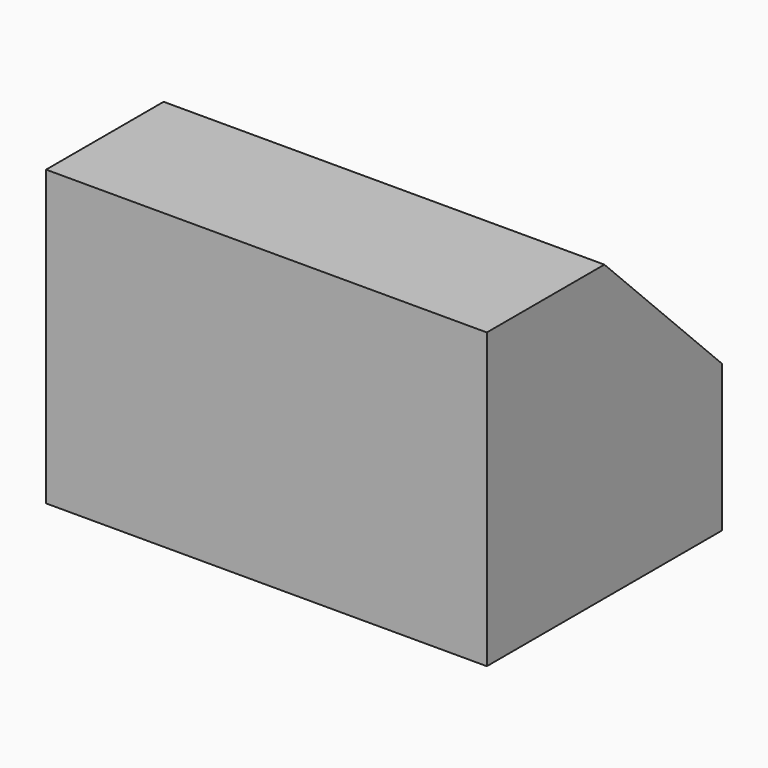
from build123d import *

# Parameters (mm, degrees)
F0_W     = 76.2
F0_H     = 50.8
F1_DEPTH = 50.8
F3_DEPTH = 76.201


with BuildPart() as f1:
    # F0 (on Front) → F1 (new body)
    with BuildSketch(Plane.XZ):
        with Locations((38.1, 25.4)):
            Rectangle(F0_W, F0_H)
    extrude(amount=F1_DEPTH)

    # F2 (on face) → F3 (cut, through all)
    with BuildSketch(Plane(origin=(0, 0, 0), x_dir=(0, -1, 0), z_dir=(-1, 0, 0))):
        Polygon((0, 50.8), (0, 25.4), (25.4, 50.8), align=None)
    extrude(amount=-F3_DEPTH, mode=Mode.SUBTRACT)


solid = f1.part
